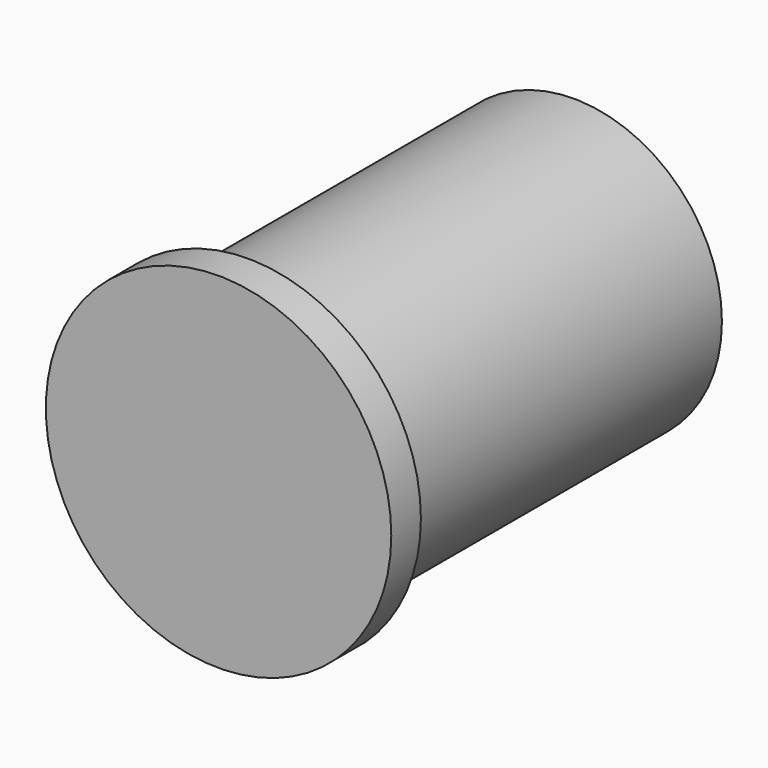
from build123d import *

# Parameters (mm, degrees)
CYLINDER006_R             = 7
CYLINDER006_DEPTH         = 1.5
CYLINDER005_R             = 6
CYLINDER005_DEPTH         = 18
FUSION001_PLACEMENT_ANGLE = 270


with BuildPart() as cylinder006:
    # Cylinder006 → Cylinder006 (new body)
    with BuildSketch(Plane.XY):
        Circle(CYLINDER006_R)
    extrude(amount=CYLINDER006_DEPTH)


with BuildPart() as dc_jack001:
    # Cylinder005 → Cylinder005 (new body)
    with BuildSketch(Plane.XY):
        Circle(CYLINDER005_R)
    extrude(amount=CYLINDER005_DEPTH)

    # Fusion001: union Cylinder006
    add(cylinder006.part)


with BuildPart() as dc_jack001_1:
    # Fusion001 placement: moved
    add(dc_jack001.part.moved(Location((158, -2, 13))).rotate(Axis((158, -2, 13), (1, 0, 0)), FUSION001_PLACEMENT_ANGLE))


solid = dc_jack001_1.part
